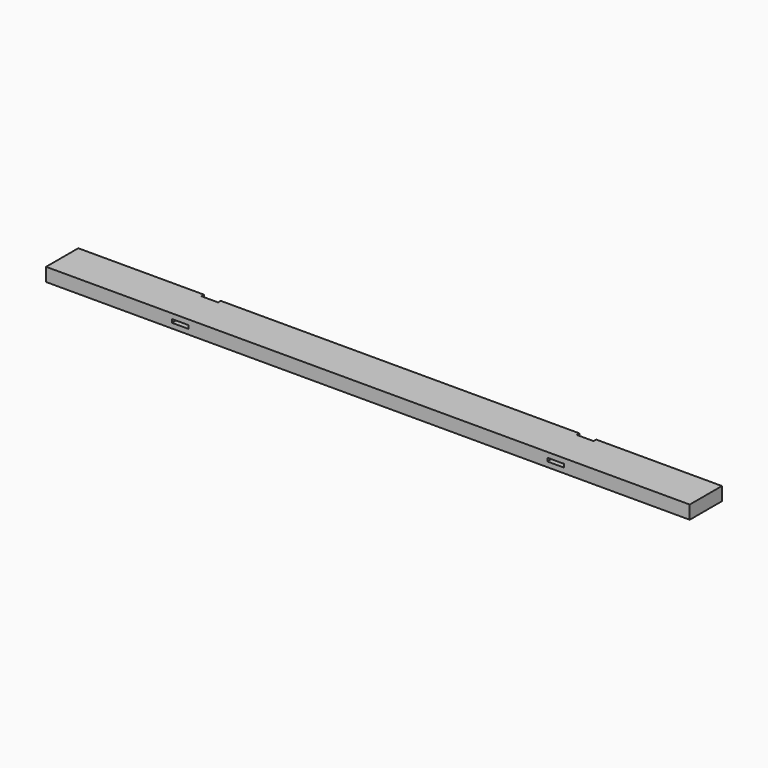
from build123d import *

# Parameters (mm, degrees)
F0_W     = 1219.2
F0_H     = 76.2
F1_DEPTH = 12.7
F2_W     = 31.75
F2_H     = 6.35
F3_DEPTH = 76.2
F4_DEPTH = 76.2
F5_W     = 31.75
F5_H     = 6.35
F6_DEPTH = 9.525
F7_DEPTH = 9.525


with BuildPart() as f1:
    # F0 (on Top) → F1 (new body, symmetric)
    with BuildSketch(Plane.XY):
        Rectangle(F0_W, F0_H)
    extrude(amount=F1_DEPTH, both=True)

    # F2 (on face) → F3 (cut, through all)
    with BuildSketch(Plane.XZ.offset(38.1)):
        with Locations((-355.6, 0)):
            Rectangle(F2_W, F2_H)
    extrude(amount=-F3_DEPTH, mode=Mode.SUBTRACT)

    # F2 (on face) → F4 (cut, through all)
    with BuildSketch(Plane.XZ.offset(38.1)):
        with Locations((355.6, 0)):
            Rectangle(F2_W, F2_H)
    extrude(amount=-F4_DEPTH, mode=Mode.SUBTRACT)

    # F5 (on face) → F6 (cut, through all)
    with BuildSketch(Plane.XY.offset(12.7)):
        with Locations((-355.6, 34.925)):
            Rectangle(F5_W, F5_H)
    extrude(amount=-F6_DEPTH, mode=Mode.SUBTRACT)

    # F5 (on face) → F7 (cut, through all)
    with BuildSketch(Plane.XY.offset(12.7)):
        with Locations((355.6, 34.925)):
            Rectangle(F5_W, F5_H)
    extrude(amount=-F7_DEPTH, mode=Mode.SUBTRACT)


solid = f1.part
